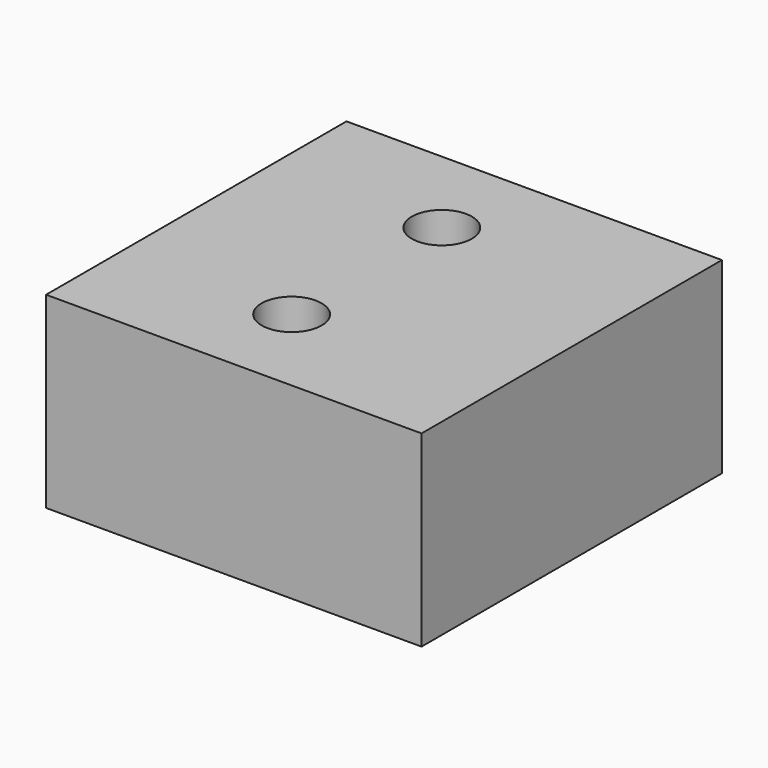
from build123d import *

# Parameters (mm, degrees)
SKETCH_W     = 10
SKETCH_H     = 10
PAD_DEPTH    = 5
SKETCH001_R  = 0.8
POCKET_DEPTH = 5.001


with BuildPart() as part:
    # Sketch → Pad (new body)
    with BuildSketch(Plane.XY):
        with Locations((5, 5)):
            Rectangle(SKETCH_W, SKETCH_H)
    extrude(amount=PAD_DEPTH)

    # Sketch001 → Pocket (cut, through all)
    with BuildSketch(Plane.XY.offset(5)):
        with Locations((4.540457, 2.5)):
            Circle(SKETCH001_R)
        with Locations((4.540457, 7.5)):
            Circle(SKETCH001_R)
    extrude(amount=-POCKET_DEPTH, mode=Mode.SUBTRACT)


solid = part.part
